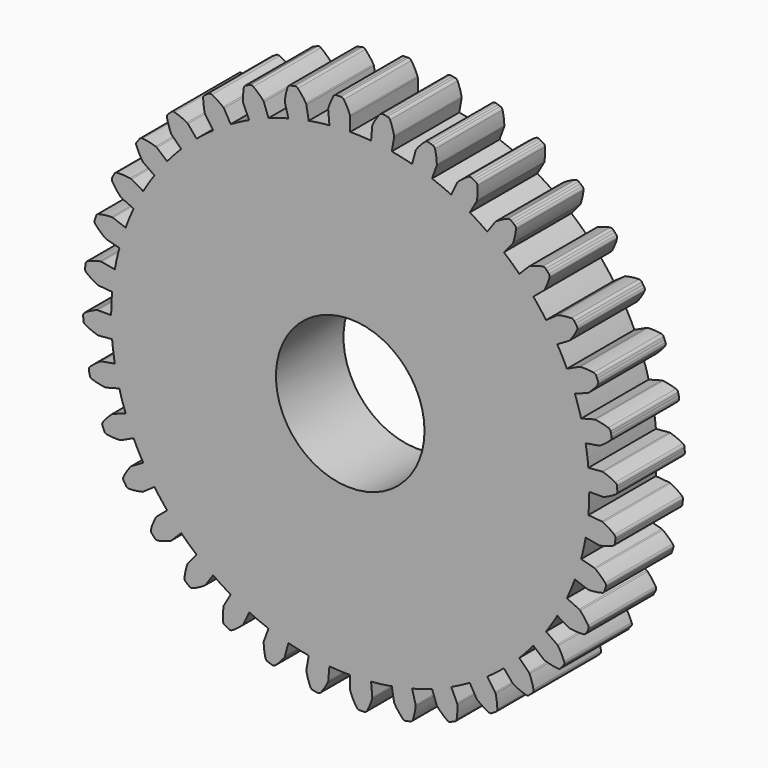
from build123d import *

# Parameters (mm, degrees)
F1_DEPTH = 6.35
F2_R     = 5.588
F3_DEPTH = 12.7


with BuildPart() as f1:
    # F0 (on Front) → F1 (new body)
    with BuildSketch(Plane.XZ):
        with BuildLine():
            ThreePointArc((17.914768, -1.567339), (17.966084, -0.784416), (17.9832, 0))
            ThreePointArc((17.9832, 0), (17.966084, 0.784416), (17.914768, 1.567339))
            ThreePointArc((17.914768, 1.567339), (17.829351, 2.347279), (17.709995, 3.12275))
            ThreePointArc((17.709995, 3.12275), (17.556926, 3.892277), (17.370437, 4.654395))
            ThreePointArc((17.370437, 4.654395), (17.150883, 5.407653), (16.89868, 6.150617))
            ThreePointArc((16.89868, 6.150617), (16.61431, 6.881873), (16.298314, 7.600029))
            ThreePointArc((16.298314, 7.600029), (15.951293, 8.303718), (15.573908, 8.9916))
            ThreePointArc((15.573908, 8.9916), (15.166877, 9.662366), (14.730975, 10.31474))
            ThreePointArc((14.730975, 10.31474), (14.267032, 10.947479), (13.77593, 11.559378))
            ThreePointArc((13.77593, 11.559378), (13.258606, 12.149274), (12.716043, 12.716043))
            ThreePointArc((12.716043, 12.716043), (12.149274, 13.258606), (11.559378, 13.77593))
            ThreePointArc((11.559378, 13.77593), (10.947479, 14.267032), (10.31474, 14.730975))
            ThreePointArc((10.31474, 14.730975), (9.662366, 15.166877), (8.9916, 15.573908))
            ThreePointArc((8.9916, 15.573908), (8.303718, 15.951293), (7.600029, 16.298314))
            ThreePointArc((7.600029, 16.298314), (6.881873, 16.61431), (6.150617, 16.89868))
            ThreePointArc((6.150617, 16.89868), (5.407653, 17.150883), (4.654395, 17.370437))
            ThreePointArc((4.654395, 17.370437), (3.892277, 17.556926), (3.12275, 17.709995))
            ThreePointArc((3.12275, 17.709995), (2.347279, 17.829351), (1.567339, 17.914768))
            ThreePointArc((1.567339, 17.914768), (0.784416, 17.966084), (0, 17.9832))
            ThreePointArc((0, 17.9832), (-0.784416, 17.966084), (-1.567339, 17.914768))
            ThreePointArc((-1.567339, 17.914768), (-2.347279, 17.829351), (-3.12275, 17.709995))
            ThreePointArc((-3.12275, 17.709995), (-3.892277, 17.556926), (-4.654395, 17.370437))
            ThreePointArc((-4.654395, 17.370437), (-5.407653, 17.150883), (-6.150617, 16.89868))
            ThreePointArc((-6.150617, 16.89868), (-6.881873, 16.61431), (-7.600029, 16.298314))
            ThreePointArc((-7.600029, 16.298314), (-8.303718, 15.951293), (-8.9916, 15.573908))
            ThreePointArc((-8.9916, 15.573908), (-9.662366, 15.166877), (-10.31474, 14.730975))
            ThreePointArc((-10.31474, 14.730975), (-10.947479, 14.267032), (-11.559378, 13.77593))
            ThreePointArc((-11.559378, 13.77593), (-12.149274, 13.258606), (-12.716043, 12.716043))
            ThreePointArc((-12.716043, 12.716043), (-13.258606, 12.149274), (-13.77593, 11.559378))
            ThreePointArc((-13.77593, 11.559378), (-14.267032, 10.947479), (-14.730975, 10.31474))
            ThreePointArc((-14.730975, 10.31474), (-15.166877, 9.662366), (-15.573908, 8.9916))
            ThreePointArc((-15.573908, 8.9916), (-15.951293, 8.303718), (-16.298314, 7.600029))
            ThreePointArc((-16.298314, 7.600029), (-16.61431, 6.881873), (-16.89868, 6.150617))
            ThreePointArc((-16.89868, 6.150617), (-17.150883, 5.407653), (-17.370437, 4.654395))
            ThreePointArc((-17.370437, 4.654395), (-17.556926, 3.892277), (-17.709995, 3.12275))
            ThreePointArc((-17.709995, 3.12275), (-17.829351, 2.347279), (-17.914768, 1.567339))
            ThreePointArc((-17.914768, 1.567339), (-17.966084, 0.784416), (-17.9832, 0))
            ThreePointArc((-17.9832, 0), (-17.966084, -0.784416), (-17.914768, -1.567339))
            ThreePointArc((-17.914768, -1.567339), (-17.829351, -2.347279), (-17.709995, -3.12275))
            ThreePointArc((-17.709995, -3.12275), (-17.556926, -3.892277), (-17.370437, -4.654395))
            ThreePointArc((-17.370437, -4.654395), (-17.150883, -5.407653), (-16.89868, -6.150617))
            ThreePointArc((-16.89868, -6.150617), (-16.61431, -6.881873), (-16.298314, -7.600029))
            ThreePointArc((-16.298314, -7.600029), (-15.951293, -8.303718), (-15.573908, -8.9916))
            ThreePointArc((-15.573908, -8.9916), (-15.166877, -9.662366), (-14.730975, -10.31474))
            ThreePointArc((-14.730975, -10.31474), (-14.267032, -10.947479), (-13.77593, -11.559378))
            ThreePointArc((-13.77593, -11.559378), (-13.258606, -12.149274), (-12.716043, -12.716043))
            ThreePointArc((-12.716043, -12.716043), (-12.149274, -13.258606), (-11.559378, -13.77593))
            ThreePointArc((-11.559378, -13.77593), (-10.947479, -14.267032), (-10.31474, -14.730975))
            ThreePointArc((-10.31474, -14.730975), (-9.662366, -15.166877), (-8.9916, -15.573908))
            ThreePointArc((-8.9916, -15.573908), (-8.303718, -15.951293), (-7.600029, -16.298314))
            ThreePointArc((-7.600029, -16.298314), (-6.881873, -16.61431), (-6.150617, -16.89868))
            ThreePointArc((-6.150617, -16.89868), (-5.407653, -17.150883), (-4.654395, -17.370437))
            ThreePointArc((-4.654395, -17.370437), (-3.892277, -17.556926), (-3.12275, -17.709995))
            ThreePointArc((-3.12275, -17.709995), (-2.347279, -17.829351), (-1.567339, -17.914768))
            ThreePointArc((-1.567339, -17.914768), (-0.784416, -17.966084), (0, -17.9832))
            ThreePointArc((0, -17.9832), (0.784416, -17.966084), (1.567339, -17.914768))
            ThreePointArc((1.567339, -17.914768), (2.347279, -17.829351), (3.12275, -17.709995))
            ThreePointArc((3.12275, -17.709995), (3.892277, -17.556926), (4.654395, -17.370437))
            ThreePointArc((4.654395, -17.370437), (5.407653, -17.150883), (6.150617, -16.89868))
            ThreePointArc((6.150617, -16.89868), (6.881873, -16.61431), (7.600029, -16.298314))
            ThreePointArc((7.600029, -16.298314), (8.303718, -15.951293), (8.9916, -15.573908))
            ThreePointArc((8.9916, -15.573908), (9.662366, -15.166877), (10.31474, -14.730975))
            ThreePointArc((10.31474, -14.730975), (10.947479, -14.267032), (11.559378, -13.77593))
            ThreePointArc((11.559378, -13.77593), (12.149274, -13.258606), (12.716043, -12.716043))
            ThreePointArc((12.716043, -12.716043), (13.258606, -12.149274), (13.77593, -11.559378))
            ThreePointArc((13.77593, -11.559378), (14.267032, -10.947479), (14.730975, -10.31474))
            ThreePointArc((14.730975, -10.31474), (15.166877, -9.662366), (15.573908, -8.9916))
            ThreePointArc((15.573908, -8.9916), (15.951293, -8.303718), (16.298314, -7.600029))
            ThreePointArc((16.298314, -7.600029), (16.61431, -6.881873), (16.89868, -6.150617))
            ThreePointArc((16.89868, -6.150617), (17.150883, -5.407653), (17.370437, -4.654395))
            ThreePointArc((17.370437, -4.654395), (17.556926, -3.892277), (17.709995, -3.12275))
            ThreePointArc((17.709995, -3.12275), (17.829351, -2.347279), (17.914768, -1.567339))
        make_face()
        with BuildLine():
            ThreePointArc((17.914768, 1.567339), (17.966084, 0.784416), (17.9832, 0))
            Line((17.9832, 0), (19.002172, 0))
            ThreePointArc((19.002172, 0), (19.049827, 0.00451), (19.095789, 0.017882))
            ThreePointArc((19.095789, 0.017882), (19.549398, 0.225853), (19.978756, 0.480146))
            ThreePointArc((19.978756, 0.480146), (20.063997, 0.575579), (20.091894, 0.70046))
            ThreePointArc((20.091894, 0.70046), (20.088623, 0.788702), (20.084965, 0.876929))
            ThreePointArc((20.084965, 0.876929), (20.08092, 0.965138), (20.076487, 1.053329))
            ThreePointArc((20.076487, 1.053329), (20.037812, 1.175304), (19.944579, 1.262945))
            ThreePointArc((19.944579, 1.262945), (19.494691, 1.478849), (19.024682, 1.646494))
            ThreePointArc((19.024682, 1.646494), (18.97773, 1.655809), (18.929863, 1.656148))
            Line((18.929863, 1.656148), (17.914768, 1.567339))
        make_face()
        with BuildLine():
            Line((18.929863, -1.656148), (17.914768, -1.567339))
            ThreePointArc((17.914768, -1.567339), (17.829351, -2.347279), (17.709995, -3.12275))
            Line((17.709995, -3.12275), (18.713486, -3.299693))
            ThreePointArc((18.713486, -3.299693), (18.7612, -3.303526), (18.808786, -3.298339))
            ThreePointArc((18.808786, -3.298339), (19.291618, -3.172296), (19.758611, -2.996423))
            ThreePointArc((19.758611, -2.996423), (19.859128, -2.917242), (19.908286, -2.799102))
            ThreePointArc((19.908286, -2.799102), (19.920389, -2.711633), (19.932107, -2.624112))
            ThreePointArc((19.932107, -2.624112), (19.94344, -2.536539), (19.954389, -2.448918))
            ThreePointArc((19.954389, -2.448918), (19.937482, -2.322081), (19.860884, -2.219582))
            ThreePointArc((19.860884, -2.219582), (19.455323, -1.928836), (19.021565, -1.682121))
            ThreePointArc((19.021565, -1.682121), (18.976943, -1.664795), (18.929863, -1.656148))
        make_face()
        with BuildLine():
            ThreePointArc((17.370437, 4.654395), (17.556926, 3.892277), (17.709995, 3.12275))
            Line((17.709995, 3.12275), (18.713486, 3.299693))
            ThreePointArc((18.713486, 3.299693), (18.759634, 3.31241), (18.802576, 3.333559))
            ThreePointArc((18.802576, 3.333559), (19.21318, 3.617139), (19.591858, 3.942126))
            ThreePointArc((19.591858, 3.942126), (19.659231, 4.050911), (19.665019, 4.178739))
            ThreePointArc((19.665019, 4.178739), (19.646475, 4.265073), (19.627553, 4.351324))
            ThreePointArc((19.627553, 4.351324), (19.608251, 4.437491), (19.588571, 4.523572))
            ThreePointArc((19.588571, 4.523572), (19.529303, 4.636978), (19.422268, 4.707097))
            ThreePointArc((19.422268, 4.707097), (18.941724, 4.8416), (18.449744, 4.925082))
            ThreePointArc((18.449744, 4.925082), (18.401887, 4.926101), (18.354689, 4.918124))
            Line((18.354689, 4.918124), (17.370437, 4.654395))
        make_face()
        with BuildLine():
            Line((18.354689, -4.918124), (17.370437, -4.654395))
            ThreePointArc((17.370437, -4.654395), (17.150883, -5.407653), (16.89868, -6.150617))
            Line((16.89868, -6.150617), (17.856201, -6.499126))
            ThreePointArc((17.856201, -6.499126), (17.902524, -6.511186), (17.950288, -6.514341))
            ThreePointArc((17.950288, -6.514341), (18.447671, -6.474056), (18.938109, -6.381948))
            ThreePointArc((18.938109, -6.381948), (19.050849, -6.321423), (19.119776, -6.213615))
            ThreePointArc((19.119776, -6.213615), (19.146883, -6.129577), (19.173621, -6.045419))
            ThreePointArc((19.173621, -6.045419), (19.199989, -5.961146), (19.225987, -5.876757))
            ThreePointArc((19.225987, -5.876757), (19.231362, -5.748911), (19.173726, -5.634668))
            ThreePointArc((19.173726, -5.634668), (18.824814, -5.277914), (18.440488, -4.959626))
            ThreePointArc((18.440488, -4.959626), (18.399552, -4.934815), (18.354689, -4.918124))
        make_face()
        with BuildLine():
            ThreePointArc((16.298314, 7.600029), (16.61431, 6.881873), (16.89868, 6.150617))
            Line((16.89868, 6.150617), (17.856201, 6.499126))
            ThreePointArc((17.856201, 6.499126), (17.899439, 6.519663), (17.938056, 6.547948))
            ThreePointArc((17.938056, 6.547948), (18.293179, 6.89852), (18.60967, 7.284327))
            ThreePointArc((18.60967, 7.284327), (18.65713, 7.403159), (18.640633, 7.530049))
            ThreePointArc((18.640633, 7.530049), (18.607379, 7.611851), (18.573767, 7.693506))
            ThreePointArc((18.573767, 7.693506), (18.539796, 7.775012), (18.505467, 7.856369))
            ThreePointArc((18.505467, 7.856369), (18.427407, 7.957759), (18.309821, 8.008227))
            ThreePointArc((18.309821, 8.008227), (17.813221, 8.057241), (17.314219, 8.054023))
            ThreePointArc((17.314219, 8.054023), (17.266913, 8.046717), (17.221817, 8.030665))
            Line((17.221817, 8.030665), (16.298314, 7.600029))
        make_face()
        with BuildLine():
            Line((17.221817, -8.030665), (16.298314, -7.600029))
            ThreePointArc((16.298314, -7.600029), (15.951293, -8.303718), (15.573908, -8.9916))
            Line((15.573908, -8.9916), (16.456364, -9.501086))
            ThreePointArc((16.456364, -9.501086), (16.499889, -9.521007), (16.546379, -9.532409))
            ThreePointArc((16.546379, -9.532409), (17.043202, -9.579105), (17.542183, -9.57356))
            ThreePointArc((17.542183, -9.57356), (17.66372, -9.533532), (17.75032, -9.439331))
            ThreePointArc((17.75032, -9.439331), (17.791609, -9.361276), (17.832554, -9.28304))
            ThreePointArc((17.832554, -9.28304), (17.873156, -9.204626), (17.913413, -9.126033))
            ThreePointArc((17.913413, -9.126033), (17.940906, -9.001063), (17.903984, -8.878547))
            ThreePointArc((17.903984, -8.878547), (17.622322, -8.466625), (17.299105, -8.086435))
            ThreePointArc((17.299105, -8.086435), (17.2631, -8.054893), (17.221817, -8.030665))
        make_face()
        with BuildLine():
            ThreePointArc((14.730975, 10.31474), (15.166877, 9.662366), (15.573908, 8.9916))
            Line((15.573908, 8.9916), (16.456364, 9.501086))
            ThreePointArc((16.456364, 9.501086), (16.495379, 9.52882), (16.528498, 9.56338))
            ThreePointArc((16.528498, 9.56338), (16.817349, 9.970293), (17.062038, 10.405197))
            ThreePointArc((17.062038, 10.405197), (17.088141, 10.530465), (17.04986, 10.652563))
            ThreePointArc((17.04986, 10.652563), (17.002907, 10.727347), (16.955626, 10.801925))
            ThreePointArc((16.955626, 10.801925), (16.908018, 10.876294), (16.860083, 10.950454))
            ThreePointArc((16.860083, 10.950454), (16.765603, 11.036749), (16.641039, 11.066031))
            ThreePointArc((16.641039, 11.066031), (16.143473, 11.028066), (15.652611, 10.938247))
            ThreePointArc((15.652611, 10.938247), (15.607292, 10.922837), (15.565668, 10.899198))
            Line((15.565668, 10.899198), (14.730975, 10.31474))
        make_face()
        with BuildLine():
            Line((15.565668, -10.899198), (14.730975, -10.31474))
            ThreePointArc((14.730975, -10.31474), (14.267032, -10.947479), (13.77593, -11.559378))
            Line((13.77593, -11.559378), (14.556508, -12.214361))
            ThreePointArc((14.556508, -12.214361), (14.595913, -12.241537), (14.639717, -12.260838))
            ThreePointArc((14.639717, -12.260838), (15.120883, -12.393098), (15.613247, -12.474284))
            ThreePointArc((15.613247, -12.474284), (15.739888, -12.455969), (15.84153, -12.378237))
            ThreePointArc((15.84153, -12.378237), (15.895746, -12.308537), (15.949655, -12.238601))
            ThreePointArc((15.949655, -12.238601), (16.003256, -12.168428), (16.056548, -12.09802))
            ThreePointArc((16.056548, -12.09802), (16.105325, -11.979723), (16.090239, -11.852656))
            ThreePointArc((16.090239, -11.852656), (15.884386, -11.398082), (15.632098, -10.967542))
            ThreePointArc((15.632098, -10.967542), (15.602117, -10.930226), (15.565668, -10.899198))
        make_face()
        with BuildLine():
            ThreePointArc((12.716043, 12.716043), (13.258606, 12.149274), (13.77593, 11.559378))
            Line((13.77593, 11.559378), (14.556508, 12.214361))
            ThreePointArc((14.556508, 12.214361), (14.590115, 12.248448), (14.616729, 12.288235))
            ThreePointArc((14.616729, 12.288235), (14.830533, 12.739124), (14.995983, 13.20991))
            ThreePointArc((14.995983, 13.20991), (14.999938, 13.337808), (14.941037, 13.451404))
            ThreePointArc((14.941037, 13.451404), (14.88181, 13.516899), (14.822297, 13.582133))
            ThreePointArc((14.822297, 13.582133), (14.762498, 13.647105), (14.702414, 13.711814))
            ThreePointArc((14.702414, 13.711814), (14.594384, 13.780392), (14.466628, 13.7876))
            ThreePointArc((14.466628, 13.7876), (13.983214, 13.66381), (13.515406, 13.490118))
            ThreePointArc((13.515406, 13.490118), (13.473451, 13.467072), (13.436565, 13.436565))
            Line((13.436565, 13.436565), (12.716043, 12.716043))
        make_face()
        with BuildLine():
            Line((13.436565, -13.436565), (12.716043, -12.716043))
            ThreePointArc((12.716043, -12.716043), (12.149274, -13.258606), (11.559378, -13.77593))
            Line((11.559378, -13.77593), (12.214361, -14.556508))
            ThreePointArc((12.214361, -14.556508), (12.248448, -14.590115), (12.288235, -14.616729))
            ThreePointArc((12.288235, -14.616729), (12.739124, -14.830533), (13.20991, -14.995983))
            ThreePointArc((13.20991, -14.995983), (13.337808, -14.999938), (13.451404, -14.941037))
            ThreePointArc((13.451404, -14.941037), (13.516899, -14.88181), (13.582133, -14.822297))
            ThreePointArc((13.582133, -14.822297), (13.647105, -14.762498), (13.711814, -14.702414))
            ThreePointArc((13.711814, -14.702414), (13.780392, -14.594384), (13.7876, -14.466628))
            ThreePointArc((13.7876, -14.466628), (13.66381, -13.983214), (13.490118, -13.515406))
            ThreePointArc((13.490118, -13.515406), (13.467072, -13.473451), (13.436565, -13.436565))
        make_face()
        with BuildLine():
            ThreePointArc((10.31474, 14.730975), (10.947479, 14.267032), (11.559378, 13.77593))
            Line((11.559378, 13.77593), (12.214361, 14.556508))
            ThreePointArc((12.214361, 14.556508), (12.241537, 14.595913), (12.260838, 14.639717))
            ThreePointArc((12.260838, 14.639717), (12.393098, 15.120883), (12.474284, 15.613247))
            ThreePointArc((12.474284, 15.613247), (12.455969, 15.739888), (12.378237, 15.84153))
            ThreePointArc((12.378237, 15.84153), (12.308537, 15.895746), (12.238601, 15.949655))
            ThreePointArc((12.238601, 15.949655), (12.168428, 16.003256), (12.09802, 16.056548))
            ThreePointArc((12.09802, 16.056548), (11.979723, 16.105325), (11.852656, 16.090239))
            ThreePointArc((11.852656, 16.090239), (11.398082, 15.884386), (10.967542, 15.632098))
            ThreePointArc((10.967542, 15.632098), (10.930226, 15.602117), (10.899198, 15.565668))
            Line((10.899198, 15.565668), (10.31474, 14.730975))
        make_face()
        with BuildLine():
            Line((10.899198, -15.565668), (10.31474, -14.730975))
            ThreePointArc((10.31474, -14.730975), (9.662366, -15.166877), (8.9916, -15.573908))
            Line((8.9916, -15.573908), (9.501086, -16.456364))
            ThreePointArc((9.501086, -16.456364), (9.52882, -16.495379), (9.56338, -16.528498))
            ThreePointArc((9.56338, -16.528498), (9.970293, -16.817349), (10.405197, -17.062038))
            ThreePointArc((10.405197, -17.062038), (10.530465, -17.088141), (10.652563, -17.04986))
            ThreePointArc((10.652563, -17.04986), (10.727347, -17.002907), (10.801925, -16.955626))
            ThreePointArc((10.801925, -16.955626), (10.876294, -16.908018), (10.950454, -16.860083))
            ThreePointArc((10.950454, -16.860083), (11.036749, -16.765603), (11.066031, -16.641039))
            ThreePointArc((11.066031, -16.641039), (11.028066, -16.143473), (10.938247, -15.652611))
            ThreePointArc((10.938247, -15.652611), (10.922837, -15.607292), (10.899198, -15.565668))
        make_face()
        with BuildLine():
            ThreePointArc((7.600029, 16.298314), (8.303718, 15.951293), (8.9916, 15.573908))
            Line((8.9916, 15.573908), (9.501086, 16.456364))
            ThreePointArc((9.501086, 16.456364), (9.521007, 16.499889), (9.532409, 16.546379))
            ThreePointArc((9.532409, 16.546379), (9.579105, 17.043202), (9.57356, 17.542183))
            ThreePointArc((9.57356, 17.542183), (9.533532, 17.66372), (9.439331, 17.75032))
            ThreePointArc((9.439331, 17.75032), (9.361276, 17.791609), (9.28304, 17.832554))
            ThreePointArc((9.28304, 17.832554), (9.204626, 17.873156), (9.126033, 17.913413))
            ThreePointArc((9.126033, 17.913413), (9.001063, 17.940906), (8.878547, 17.903984))
            ThreePointArc((8.878547, 17.903984), (8.466625, 17.622322), (8.086435, 17.299105))
            ThreePointArc((8.086435, 17.299105), (8.054893, 17.2631), (8.030665, 17.221817))
            Line((8.030665, 17.221817), (7.600029, 16.298314))
        make_face()
        with BuildLine():
            Line((8.030665, -17.221817), (7.600029, -16.298314))
            ThreePointArc((7.600029, -16.298314), (6.881873, -16.61431), (6.150617, -16.89868))
            Line((6.150617, -16.89868), (6.499126, -17.856201))
            ThreePointArc((6.499126, -17.856201), (6.519663, -17.899439), (6.547948, -17.938056))
            ThreePointArc((6.547948, -17.938056), (6.89852, -18.293179), (7.284327, -18.60967))
            ThreePointArc((7.284327, -18.60967), (7.403159, -18.65713), (7.530049, -18.640633))
            ThreePointArc((7.530049, -18.640633), (7.611851, -18.607379), (7.693506, -18.573767))
            ThreePointArc((7.693506, -18.573767), (7.775012, -18.539796), (7.856369, -18.505467))
            ThreePointArc((7.856369, -18.505467), (7.957759, -18.427407), (8.008227, -18.309821))
            ThreePointArc((8.008227, -18.309821), (8.057241, -17.813221), (8.054023, -17.314219))
            ThreePointArc((8.054023, -17.314219), (8.046717, -17.266913), (8.030665, -17.221817))
        make_face()
        with BuildLine():
            ThreePointArc((4.654395, 17.370437), (5.407653, 17.150883), (6.150617, 16.89868))
            Line((6.150617, 16.89868), (6.499126, 17.856201))
            ThreePointArc((6.499126, 17.856201), (6.511186, 17.902524), (6.514341, 17.950288))
            ThreePointArc((6.514341, 17.950288), (6.474056, 18.447671), (6.381948, 18.938109))
            ThreePointArc((6.381948, 18.938109), (6.321423, 19.050849), (6.213615, 19.119776))
            ThreePointArc((6.213615, 19.119776), (6.129577, 19.146883), (6.045419, 19.173621))
            ThreePointArc((6.045419, 19.173621), (5.961146, 19.199989), (5.876757, 19.225987))
            ThreePointArc((5.876757, 19.225987), (5.748911, 19.231362), (5.634668, 19.173726))
            ThreePointArc((5.634668, 19.173726), (5.277914, 18.824814), (4.959626, 18.440488))
            ThreePointArc((4.959626, 18.440488), (4.934815, 18.399552), (4.918124, 18.354689))
            Line((4.918124, 18.354689), (4.654395, 17.370437))
        make_face()
        with BuildLine():
            Line((4.918124, -18.354689), (4.654395, -17.370437))
            ThreePointArc((4.654395, -17.370437), (3.892277, -17.556926), (3.12275, -17.709995))
            Line((3.12275, -17.709995), (3.299693, -18.713486))
            ThreePointArc((3.299693, -18.713486), (3.31241, -18.759634), (3.333559, -18.802576))
            ThreePointArc((3.333559, -18.802576), (3.617139, -19.21318), (3.942126, -19.591858))
            ThreePointArc((3.942126, -19.591858), (4.050911, -19.659231), (4.178739, -19.665019))
            ThreePointArc((4.178739, -19.665019), (4.265073, -19.646475), (4.351324, -19.627553))
            ThreePointArc((4.351324, -19.627553), (4.437491, -19.608251), (4.523572, -19.588571))
            ThreePointArc((4.523572, -19.588571), (4.636978, -19.529303), (4.707097, -19.422268))
            ThreePointArc((4.707097, -19.422268), (4.8416, -18.941724), (4.925082, -18.449744))
            ThreePointArc((4.925082, -18.449744), (4.926101, -18.401887), (4.918124, -18.354689))
        make_face()
        with BuildLine():
            ThreePointArc((1.567339, 17.914768), (2.347279, 17.829351), (3.12275, 17.709995))
            Line((3.12275, 17.709995), (3.299693, 18.713486))
            ThreePointArc((3.299693, 18.713486), (3.303526, 18.7612), (3.298339, 18.808786))
            ThreePointArc((3.298339, 18.808786), (3.172296, 19.291618), (2.996423, 19.758611))
            ThreePointArc((2.996423, 19.758611), (2.917242, 19.859128), (2.799102, 19.908286))
            ThreePointArc((2.799102, 19.908286), (2.711633, 19.920389), (2.624112, 19.932107))
            ThreePointArc((2.624112, 19.932107), (2.536539, 19.94344), (2.448918, 19.954389))
            ThreePointArc((2.448918, 19.954389), (2.322081, 19.937482), (2.219582, 19.860884))
            ThreePointArc((2.219582, 19.860884), (1.928836, 19.455323), (1.682121, 19.021565))
            ThreePointArc((1.682121, 19.021565), (1.664795, 18.976943), (1.656148, 18.929863))
            Line((1.656148, 18.929863), (1.567339, 17.914768))
        make_face()
        with BuildLine():
            Line((1.656148, -18.929863), (1.567339, -17.914768))
            ThreePointArc((1.567339, -17.914768), (0.784416, -17.966084), (0, -17.9832))
            Line((0, -17.9832), (0, -19.002172))
            ThreePointArc((0, -19.002172), (0.00451, -19.049827), (0.017882, -19.095789))
            ThreePointArc((0.017882, -19.095789), (0.225853, -19.549398), (0.480146, -19.978756))
            ThreePointArc((0.480146, -19.978756), (0.575579, -20.063997), (0.70046, -20.091894))
            ThreePointArc((0.70046, -20.091894), (0.788702, -20.088623), (0.876929, -20.084965))
            ThreePointArc((0.876929, -20.084965), (0.965138, -20.08092), (1.053329, -20.076487))
            ThreePointArc((1.053329, -20.076487), (1.175304, -20.037812), (1.262945, -19.944579))
            ThreePointArc((1.262945, -19.944579), (1.478849, -19.494691), (1.646494, -19.024682))
            ThreePointArc((1.646494, -19.024682), (1.655809, -18.97773), (1.656148, -18.929863))
        make_face()
        with BuildLine():
            ThreePointArc((-1.567339, 17.914768), (-0.784416, 17.966084), (0, 17.9832))
            Line((0, 17.9832), (0, 19.002172))
            ThreePointArc((0, 19.002172), (-0.00451, 19.049827), (-0.017882, 19.095789))
            ThreePointArc((-0.017882, 19.095789), (-0.225853, 19.549398), (-0.480146, 19.978756))
            ThreePointArc((-0.480146, 19.978756), (-0.575579, 20.063997), (-0.70046, 20.091894))
            ThreePointArc((-0.70046, 20.091894), (-0.788702, 20.088623), (-0.876929, 20.084965))
            ThreePointArc((-0.876929, 20.084965), (-0.965138, 20.08092), (-1.053329, 20.076487))
            ThreePointArc((-1.053329, 20.076487), (-1.175304, 20.037812), (-1.262945, 19.944579))
            ThreePointArc((-1.262945, 19.944579), (-1.478849, 19.494691), (-1.646494, 19.024682))
            ThreePointArc((-1.646494, 19.024682), (-1.655809, 18.97773), (-1.656148, 18.929863))
            Line((-1.656148, 18.929863), (-1.567339, 17.914768))
        make_face()
        with BuildLine():
            Line((-1.656148, -18.929863), (-1.567339, -17.914768))
            ThreePointArc((-1.567339, -17.914768), (-2.347279, -17.829351), (-3.12275, -17.709995))
            Line((-3.12275, -17.709995), (-3.299693, -18.713486))
            ThreePointArc((-3.299693, -18.713486), (-3.303526, -18.7612), (-3.298339, -18.808786))
            ThreePointArc((-3.298339, -18.808786), (-3.172296, -19.291618), (-2.996423, -19.758611))
            ThreePointArc((-2.996423, -19.758611), (-2.917242, -19.859128), (-2.799102, -19.908286))
            ThreePointArc((-2.799102, -19.908286), (-2.711633, -19.920389), (-2.624112, -19.932107))
            ThreePointArc((-2.624112, -19.932107), (-2.536539, -19.94344), (-2.448918, -19.954389))
            ThreePointArc((-2.448918, -19.954389), (-2.322081, -19.937482), (-2.219582, -19.860884))
            ThreePointArc((-2.219582, -19.860884), (-1.928836, -19.455323), (-1.682121, -19.021565))
            ThreePointArc((-1.682121, -19.021565), (-1.664795, -18.976943), (-1.656148, -18.929863))
        make_face()
        with BuildLine():
            ThreePointArc((-4.654395, 17.370437), (-3.892277, 17.556926), (-3.12275, 17.709995))
            Line((-3.12275, 17.709995), (-3.299693, 18.713486))
            ThreePointArc((-3.299693, 18.713486), (-3.31241, 18.759634), (-3.333559, 18.802576))
            ThreePointArc((-3.333559, 18.802576), (-3.617139, 19.21318), (-3.942126, 19.591858))
            ThreePointArc((-3.942126, 19.591858), (-4.050911, 19.659231), (-4.178739, 19.665019))
            ThreePointArc((-4.178739, 19.665019), (-4.265073, 19.646475), (-4.351324, 19.627553))
            ThreePointArc((-4.351324, 19.627553), (-4.437491, 19.608251), (-4.523572, 19.588571))
            ThreePointArc((-4.523572, 19.588571), (-4.636978, 19.529303), (-4.707097, 19.422268))
            ThreePointArc((-4.707097, 19.422268), (-4.8416, 18.941724), (-4.925082, 18.449744))
            ThreePointArc((-4.925082, 18.449744), (-4.926101, 18.401887), (-4.918124, 18.354689))
            Line((-4.918124, 18.354689), (-4.654395, 17.370437))
        make_face()
        with BuildLine():
            Line((-4.918124, -18.354689), (-4.654395, -17.370437))
            ThreePointArc((-4.654395, -17.370437), (-5.407653, -17.150883), (-6.150617, -16.89868))
            Line((-6.150617, -16.89868), (-6.499126, -17.856201))
            ThreePointArc((-6.499126, -17.856201), (-6.511186, -17.902524), (-6.514341, -17.950288))
            ThreePointArc((-6.514341, -17.950288), (-6.474056, -18.447671), (-6.381948, -18.938109))
            ThreePointArc((-6.381948, -18.938109), (-6.321423, -19.050849), (-6.213615, -19.119776))
            ThreePointArc((-6.213615, -19.119776), (-6.129577, -19.146883), (-6.045419, -19.173621))
            ThreePointArc((-6.045419, -19.173621), (-5.961146, -19.199989), (-5.876757, -19.225987))
            ThreePointArc((-5.876757, -19.225987), (-5.748911, -19.231362), (-5.634668, -19.173726))
            ThreePointArc((-5.634668, -19.173726), (-5.277914, -18.824814), (-4.959626, -18.440488))
            ThreePointArc((-4.959626, -18.440488), (-4.934815, -18.399552), (-4.918124, -18.354689))
        make_face()
        with BuildLine():
            ThreePointArc((-7.600029, 16.298314), (-6.881873, 16.61431), (-6.150617, 16.89868))
            Line((-6.150617, 16.89868), (-6.499126, 17.856201))
            ThreePointArc((-6.499126, 17.856201), (-6.519663, 17.899439), (-6.547948, 17.938056))
            ThreePointArc((-6.547948, 17.938056), (-6.89852, 18.293179), (-7.284327, 18.60967))
            ThreePointArc((-7.284327, 18.60967), (-7.403159, 18.65713), (-7.530049, 18.640633))
            ThreePointArc((-7.530049, 18.640633), (-7.611851, 18.607379), (-7.693506, 18.573767))
            ThreePointArc((-7.693506, 18.573767), (-7.775012, 18.539796), (-7.856369, 18.505467))
            ThreePointArc((-7.856369, 18.505467), (-7.957759, 18.427407), (-8.008227, 18.309821))
            ThreePointArc((-8.008227, 18.309821), (-8.057241, 17.813221), (-8.054023, 17.314219))
            ThreePointArc((-8.054023, 17.314219), (-8.046717, 17.266913), (-8.030665, 17.221817))
            Line((-8.030665, 17.221817), (-7.600029, 16.298314))
        make_face()
        with BuildLine():
            Line((-8.030665, -17.221817), (-7.600029, -16.298314))
            ThreePointArc((-7.600029, -16.298314), (-8.303718, -15.951293), (-8.9916, -15.573908))
            Line((-8.9916, -15.573908), (-9.501086, -16.456364))
            ThreePointArc((-9.501086, -16.456364), (-9.521007, -16.499889), (-9.532409, -16.546379))
            ThreePointArc((-9.532409, -16.546379), (-9.579105, -17.043202), (-9.57356, -17.542183))
            ThreePointArc((-9.57356, -17.542183), (-9.533532, -17.66372), (-9.439331, -17.75032))
            ThreePointArc((-9.439331, -17.75032), (-9.361276, -17.791609), (-9.28304, -17.832554))
            ThreePointArc((-9.28304, -17.832554), (-9.204626, -17.873156), (-9.126033, -17.913413))
            ThreePointArc((-9.126033, -17.913413), (-9.001063, -17.940906), (-8.878547, -17.903984))
            ThreePointArc((-8.878547, -17.903984), (-8.466625, -17.622322), (-8.086435, -17.299105))
            ThreePointArc((-8.086435, -17.299105), (-8.054893, -17.2631), (-8.030665, -17.221817))
        make_face()
        with BuildLine():
            ThreePointArc((-10.31474, 14.730975), (-9.662366, 15.166877), (-8.9916, 15.573908))
            Line((-8.9916, 15.573908), (-9.501086, 16.456364))
            ThreePointArc((-9.501086, 16.456364), (-9.52882, 16.495379), (-9.56338, 16.528498))
            ThreePointArc((-9.56338, 16.528498), (-9.970293, 16.817349), (-10.405197, 17.062038))
            ThreePointArc((-10.405197, 17.062038), (-10.530465, 17.088141), (-10.652563, 17.04986))
            ThreePointArc((-10.652563, 17.04986), (-10.727347, 17.002907), (-10.801925, 16.955626))
            ThreePointArc((-10.801925, 16.955626), (-10.876294, 16.908018), (-10.950454, 16.860083))
            ThreePointArc((-10.950454, 16.860083), (-11.036749, 16.765603), (-11.066031, 16.641039))
            ThreePointArc((-11.066031, 16.641039), (-11.028066, 16.143473), (-10.938247, 15.652611))
            ThreePointArc((-10.938247, 15.652611), (-10.922837, 15.607292), (-10.899198, 15.565668))
            Line((-10.899198, 15.565668), (-10.31474, 14.730975))
        make_face()
        with BuildLine():
            Line((-10.899198, -15.565668), (-10.31474, -14.730975))
            ThreePointArc((-10.31474, -14.730975), (-10.947479, -14.267032), (-11.559378, -13.77593))
            Line((-11.559378, -13.77593), (-12.214361, -14.556508))
            ThreePointArc((-12.214361, -14.556508), (-12.241537, -14.595913), (-12.260838, -14.639717))
            ThreePointArc((-12.260838, -14.639717), (-12.393098, -15.120883), (-12.474284, -15.613247))
            ThreePointArc((-12.474284, -15.613247), (-12.455969, -15.739888), (-12.378237, -15.84153))
            ThreePointArc((-12.378237, -15.84153), (-12.308537, -15.895746), (-12.238601, -15.949655))
            ThreePointArc((-12.238601, -15.949655), (-12.168428, -16.003256), (-12.09802, -16.056548))
            ThreePointArc((-12.09802, -16.056548), (-11.979723, -16.105325), (-11.852656, -16.090239))
            ThreePointArc((-11.852656, -16.090239), (-11.398082, -15.884386), (-10.967542, -15.632098))
            ThreePointArc((-10.967542, -15.632098), (-10.930226, -15.602117), (-10.899198, -15.565668))
        make_face()
        with BuildLine():
            ThreePointArc((-12.716043, 12.716043), (-12.149274, 13.258606), (-11.559378, 13.77593))
            Line((-11.559378, 13.77593), (-12.214361, 14.556508))
            ThreePointArc((-12.214361, 14.556508), (-12.248448, 14.590115), (-12.288235, 14.616729))
            ThreePointArc((-12.288235, 14.616729), (-12.739124, 14.830533), (-13.20991, 14.995983))
            ThreePointArc((-13.20991, 14.995983), (-13.337808, 14.999938), (-13.451404, 14.941037))
            ThreePointArc((-13.451404, 14.941037), (-13.516899, 14.88181), (-13.582133, 14.822297))
            ThreePointArc((-13.582133, 14.822297), (-13.647105, 14.762498), (-13.711814, 14.702414))
            ThreePointArc((-13.711814, 14.702414), (-13.780392, 14.594384), (-13.7876, 14.466628))
            ThreePointArc((-13.7876, 14.466628), (-13.66381, 13.983214), (-13.490118, 13.515406))
            ThreePointArc((-13.490118, 13.515406), (-13.467072, 13.473451), (-13.436565, 13.436565))
            Line((-13.436565, 13.436565), (-12.716043, 12.716043))
        make_face()
        with BuildLine():
            Line((-13.436565, -13.436565), (-12.716043, -12.716043))
            ThreePointArc((-12.716043, -12.716043), (-13.258606, -12.149274), (-13.77593, -11.559378))
            Line((-13.77593, -11.559378), (-14.556508, -12.214361))
            ThreePointArc((-14.556508, -12.214361), (-14.590115, -12.248448), (-14.616729, -12.288235))
            ThreePointArc((-14.616729, -12.288235), (-14.830533, -12.739124), (-14.995983, -13.20991))
            ThreePointArc((-14.995983, -13.20991), (-14.999938, -13.337808), (-14.941037, -13.451404))
            ThreePointArc((-14.941037, -13.451404), (-14.88181, -13.516899), (-14.822297, -13.582133))
            ThreePointArc((-14.822297, -13.582133), (-14.762498, -13.647105), (-14.702414, -13.711814))
            ThreePointArc((-14.702414, -13.711814), (-14.594384, -13.780392), (-14.466628, -13.7876))
            ThreePointArc((-14.466628, -13.7876), (-13.983214, -13.66381), (-13.515406, -13.490118))
            ThreePointArc((-13.515406, -13.490118), (-13.473451, -13.467072), (-13.436565, -13.436565))
        make_face()
        with BuildLine():
            ThreePointArc((-14.730975, 10.31474), (-14.267032, 10.947479), (-13.77593, 11.559378))
            Line((-13.77593, 11.559378), (-14.556508, 12.214361))
            ThreePointArc((-14.556508, 12.214361), (-14.595913, 12.241537), (-14.639717, 12.260838))
            ThreePointArc((-14.639717, 12.260838), (-15.120883, 12.393098), (-15.613247, 12.474284))
            ThreePointArc((-15.613247, 12.474284), (-15.739888, 12.455969), (-15.84153, 12.378237))
            ThreePointArc((-15.84153, 12.378237), (-15.895746, 12.308537), (-15.949655, 12.238601))
            ThreePointArc((-15.949655, 12.238601), (-16.003256, 12.168428), (-16.056548, 12.09802))
            ThreePointArc((-16.056548, 12.09802), (-16.105325, 11.979723), (-16.090239, 11.852656))
            ThreePointArc((-16.090239, 11.852656), (-15.884386, 11.398082), (-15.632098, 10.967542))
            ThreePointArc((-15.632098, 10.967542), (-15.602117, 10.930226), (-15.565668, 10.899198))
            Line((-15.565668, 10.899198), (-14.730975, 10.31474))
        make_face()
        with BuildLine():
            Line((-15.565668, -10.899198), (-14.730975, -10.31474))
            ThreePointArc((-14.730975, -10.31474), (-15.166877, -9.662366), (-15.573908, -8.9916))
            Line((-15.573908, -8.9916), (-16.456364, -9.501086))
            ThreePointArc((-16.456364, -9.501086), (-16.495379, -9.52882), (-16.528498, -9.56338))
            ThreePointArc((-16.528498, -9.56338), (-16.817349, -9.970293), (-17.062038, -10.405197))
            ThreePointArc((-17.062038, -10.405197), (-17.088141, -10.530465), (-17.04986, -10.652563))
            ThreePointArc((-17.04986, -10.652563), (-17.002907, -10.727347), (-16.955626, -10.801925))
            ThreePointArc((-16.955626, -10.801925), (-16.908018, -10.876294), (-16.860083, -10.950454))
            ThreePointArc((-16.860083, -10.950454), (-16.765603, -11.036749), (-16.641039, -11.066031))
            ThreePointArc((-16.641039, -11.066031), (-16.143473, -11.028066), (-15.652611, -10.938247))
            ThreePointArc((-15.652611, -10.938247), (-15.607292, -10.922837), (-15.565668, -10.899198))
        make_face()
        with BuildLine():
            ThreePointArc((-16.298314, 7.600029), (-15.951293, 8.303718), (-15.573908, 8.9916))
            Line((-15.573908, 8.9916), (-16.456364, 9.501086))
            ThreePointArc((-16.456364, 9.501086), (-16.499889, 9.521007), (-16.546379, 9.532409))
            ThreePointArc((-16.546379, 9.532409), (-17.043202, 9.579105), (-17.542183, 9.57356))
            ThreePointArc((-17.542183, 9.57356), (-17.66372, 9.533532), (-17.75032, 9.439331))
            ThreePointArc((-17.75032, 9.439331), (-17.791609, 9.361276), (-17.832554, 9.28304))
            ThreePointArc((-17.832554, 9.28304), (-17.873156, 9.204626), (-17.913413, 9.126033))
            ThreePointArc((-17.913413, 9.126033), (-17.940906, 9.001063), (-17.903984, 8.878547))
            ThreePointArc((-17.903984, 8.878547), (-17.622322, 8.466625), (-17.299105, 8.086435))
            ThreePointArc((-17.299105, 8.086435), (-17.2631, 8.054893), (-17.221817, 8.030665))
            Line((-17.221817, 8.030665), (-16.298314, 7.600029))
        make_face()
        with BuildLine():
            Line((-17.221817, -8.030665), (-16.298314, -7.600029))
            ThreePointArc((-16.298314, -7.600029), (-16.61431, -6.881873), (-16.89868, -6.150617))
            Line((-16.89868, -6.150617), (-17.856201, -6.499126))
            ThreePointArc((-17.856201, -6.499126), (-17.899439, -6.519663), (-17.938056, -6.547948))
            ThreePointArc((-17.938056, -6.547948), (-18.293179, -6.89852), (-18.60967, -7.284327))
            ThreePointArc((-18.60967, -7.284327), (-18.65713, -7.403159), (-18.640633, -7.530049))
            ThreePointArc((-18.640633, -7.530049), (-18.607379, -7.611851), (-18.573767, -7.693506))
            ThreePointArc((-18.573767, -7.693506), (-18.539796, -7.775012), (-18.505467, -7.856369))
            ThreePointArc((-18.505467, -7.856369), (-18.427407, -7.957759), (-18.309821, -8.008227))
            ThreePointArc((-18.309821, -8.008227), (-17.813221, -8.057241), (-17.314219, -8.054023))
            ThreePointArc((-17.314219, -8.054023), (-17.266913, -8.046717), (-17.221817, -8.030665))
        make_face()
        with BuildLine():
            ThreePointArc((-17.370437, 4.654395), (-17.150883, 5.407653), (-16.89868, 6.150617))
            Line((-16.89868, 6.150617), (-17.856201, 6.499126))
            ThreePointArc((-17.856201, 6.499126), (-17.902524, 6.511186), (-17.950288, 6.514341))
            ThreePointArc((-17.950288, 6.514341), (-18.447671, 6.474056), (-18.938109, 6.381948))
            ThreePointArc((-18.938109, 6.381948), (-19.050849, 6.321423), (-19.119776, 6.213615))
            ThreePointArc((-19.119776, 6.213615), (-19.146883, 6.129577), (-19.173621, 6.045419))
            ThreePointArc((-19.173621, 6.045419), (-19.199989, 5.961146), (-19.225987, 5.876757))
            ThreePointArc((-19.225987, 5.876757), (-19.231362, 5.748911), (-19.173726, 5.634668))
            ThreePointArc((-19.173726, 5.634668), (-18.824814, 5.277914), (-18.440488, 4.959626))
            ThreePointArc((-18.440488, 4.959626), (-18.399552, 4.934815), (-18.354689, 4.918124))
            Line((-18.354689, 4.918124), (-17.370437, 4.654395))
        make_face()
        with BuildLine():
            Line((-18.354689, -4.918124), (-17.370437, -4.654395))
            ThreePointArc((-17.370437, -4.654395), (-17.556926, -3.892277), (-17.709995, -3.12275))
            Line((-17.709995, -3.12275), (-18.713486, -3.299693))
            ThreePointArc((-18.713486, -3.299693), (-18.759634, -3.31241), (-18.802576, -3.333559))
            ThreePointArc((-18.802576, -3.333559), (-19.21318, -3.617139), (-19.591858, -3.942126))
            ThreePointArc((-19.591858, -3.942126), (-19.659231, -4.050911), (-19.665019, -4.178739))
            ThreePointArc((-19.665019, -4.178739), (-19.646475, -4.265073), (-19.627553, -4.351324))
            ThreePointArc((-19.627553, -4.351324), (-19.608251, -4.437491), (-19.588571, -4.523572))
            ThreePointArc((-19.588571, -4.523572), (-19.529303, -4.636978), (-19.422268, -4.707097))
            ThreePointArc((-19.422268, -4.707097), (-18.941724, -4.8416), (-18.449744, -4.925082))
            ThreePointArc((-18.449744, -4.925082), (-18.401887, -4.926101), (-18.354689, -4.918124))
        make_face()
        with BuildLine():
            ThreePointArc((-17.914768, 1.567339), (-17.829351, 2.347279), (-17.709995, 3.12275))
            Line((-17.709995, 3.12275), (-18.713486, 3.299693))
            ThreePointArc((-18.713486, 3.299693), (-18.7612, 3.303526), (-18.808786, 3.298339))
            ThreePointArc((-18.808786, 3.298339), (-19.291618, 3.172296), (-19.758611, 2.996423))
            ThreePointArc((-19.758611, 2.996423), (-19.859128, 2.917242), (-19.908286, 2.799102))
            ThreePointArc((-19.908286, 2.799102), (-19.920389, 2.711633), (-19.932107, 2.624112))
            ThreePointArc((-19.932107, 2.624112), (-19.94344, 2.536539), (-19.954389, 2.448918))
            ThreePointArc((-19.954389, 2.448918), (-19.937482, 2.322081), (-19.860884, 2.219582))
            ThreePointArc((-19.860884, 2.219582), (-19.455323, 1.928836), (-19.021565, 1.682121))
            ThreePointArc((-19.021565, 1.682121), (-18.976943, 1.664795), (-18.929863, 1.656148))
            Line((-18.929863, 1.656148), (-17.914768, 1.567339))
        make_face()
        with BuildLine():
            Line((-18.929863, -1.656148), (-17.914768, -1.567339))
            ThreePointArc((-17.914768, -1.567339), (-17.966084, -0.784416), (-17.9832, 0))
            Line((-17.9832, 0), (-19.002172, 0))
            ThreePointArc((-19.002172, 0), (-19.049827, -0.00451), (-19.095789, -0.017882))
            ThreePointArc((-19.095789, -0.017882), (-19.549398, -0.225853), (-19.978756, -0.480146))
            ThreePointArc((-19.978756, -0.480146), (-20.063997, -0.575579), (-20.091894, -0.70046))
            ThreePointArc((-20.091894, -0.70046), (-20.088623, -0.788702), (-20.084965, -0.876929))
            ThreePointArc((-20.084965, -0.876929), (-20.08092, -0.965138), (-20.076487, -1.053329))
            ThreePointArc((-20.076487, -1.053329), (-20.037812, -1.175304), (-19.944579, -1.262945))
            ThreePointArc((-19.944579, -1.262945), (-19.494691, -1.478849), (-19.024682, -1.646494))
            ThreePointArc((-19.024682, -1.646494), (-18.97773, -1.655809), (-18.929863, -1.656148))
        make_face()
        with BuildLine():
            ThreePointArc((17.914768, -1.567339), (17.966084, -0.784416), (17.9832, 0))
            ThreePointArc((17.9832, 0), (17.966084, 0.784416), (17.914768, 1.567339))
            ThreePointArc((17.914768, 1.567339), (17.829351, 2.347279), (17.709995, 3.12275))
            ThreePointArc((17.709995, 3.12275), (17.556926, 3.892277), (17.370437, 4.654395))
            ThreePointArc((17.370437, 4.654395), (17.150883, 5.407653), (16.89868, 6.150617))
            ThreePointArc((16.89868, 6.150617), (16.61431, 6.881873), (16.298314, 7.600029))
            ThreePointArc((16.298314, 7.600029), (15.951293, 8.303718), (15.573908, 8.9916))
            ThreePointArc((15.573908, 8.9916), (15.166877, 9.662366), (14.730975, 10.31474))
            ThreePointArc((14.730975, 10.31474), (14.267032, 10.947479), (13.77593, 11.559378))
            ThreePointArc((13.77593, 11.559378), (13.258606, 12.149274), (12.716043, 12.716043))
            ThreePointArc((12.716043, 12.716043), (12.149274, 13.258606), (11.559378, 13.77593))
            ThreePointArc((11.559378, 13.77593), (10.947479, 14.267032), (10.31474, 14.730975))
            ThreePointArc((10.31474, 14.730975), (9.662366, 15.166877), (8.9916, 15.573908))
            ThreePointArc((8.9916, 15.573908), (8.303718, 15.951293), (7.600029, 16.298314))
            ThreePointArc((7.600029, 16.298314), (6.881873, 16.61431), (6.150617, 16.89868))
            ThreePointArc((6.150617, 16.89868), (5.407653, 17.150883), (4.654395, 17.370437))
            ThreePointArc((4.654395, 17.370437), (3.892277, 17.556926), (3.12275, 17.709995))
            ThreePointArc((3.12275, 17.709995), (2.347279, 17.829351), (1.567339, 17.914768))
            ThreePointArc((1.567339, 17.914768), (0.784416, 17.966084), (0, 17.9832))
            ThreePointArc((0, 17.9832), (-0.784416, 17.966084), (-1.567339, 17.914768))
            ThreePointArc((-1.567339, 17.914768), (-2.347279, 17.829351), (-3.12275, 17.709995))
            ThreePointArc((-3.12275, 17.709995), (-3.892277, 17.556926), (-4.654395, 17.370437))
            ThreePointArc((-4.654395, 17.370437), (-5.407653, 17.150883), (-6.150617, 16.89868))
            ThreePointArc((-6.150617, 16.89868), (-6.881873, 16.61431), (-7.600029, 16.298314))
            ThreePointArc((-7.600029, 16.298314), (-8.303718, 15.951293), (-8.9916, 15.573908))
            ThreePointArc((-8.9916, 15.573908), (-9.662366, 15.166877), (-10.31474, 14.730975))
            ThreePointArc((-10.31474, 14.730975), (-10.947479, 14.267032), (-11.559378, 13.77593))
            ThreePointArc((-11.559378, 13.77593), (-12.149274, 13.258606), (-12.716043, 12.716043))
            ThreePointArc((-12.716043, 12.716043), (-13.258606, 12.149274), (-13.77593, 11.559378))
            ThreePointArc((-13.77593, 11.559378), (-14.267032, 10.947479), (-14.730975, 10.31474))
            ThreePointArc((-14.730975, 10.31474), (-15.166877, 9.662366), (-15.573908, 8.9916))
            ThreePointArc((-15.573908, 8.9916), (-15.951293, 8.303718), (-16.298314, 7.600029))
            ThreePointArc((-16.298314, 7.600029), (-16.61431, 6.881873), (-16.89868, 6.150617))
            ThreePointArc((-16.89868, 6.150617), (-17.150883, 5.407653), (-17.370437, 4.654395))
            ThreePointArc((-17.370437, 4.654395), (-17.556926, 3.892277), (-17.709995, 3.12275))
            ThreePointArc((-17.709995, 3.12275), (-17.829351, 2.347279), (-17.914768, 1.567339))
            ThreePointArc((-17.914768, 1.567339), (-17.966084, 0.784416), (-17.9832, 0))
            ThreePointArc((-17.9832, 0), (-17.966084, -0.784416), (-17.914768, -1.567339))
            ThreePointArc((-17.914768, -1.567339), (-17.829351, -2.347279), (-17.709995, -3.12275))
            ThreePointArc((-17.709995, -3.12275), (-17.556926, -3.892277), (-17.370437, -4.654395))
            ThreePointArc((-17.370437, -4.654395), (-17.150883, -5.407653), (-16.89868, -6.150617))
            ThreePointArc((-16.89868, -6.150617), (-16.61431, -6.881873), (-16.298314, -7.600029))
            ThreePointArc((-16.298314, -7.600029), (-15.951293, -8.303718), (-15.573908, -8.9916))
            ThreePointArc((-15.573908, -8.9916), (-15.166877, -9.662366), (-14.730975, -10.31474))
            ThreePointArc((-14.730975, -10.31474), (-14.267032, -10.947479), (-13.77593, -11.559378))
            ThreePointArc((-13.77593, -11.559378), (-13.258606, -12.149274), (-12.716043, -12.716043))
            ThreePointArc((-12.716043, -12.716043), (-12.149274, -13.258606), (-11.559378, -13.77593))
            ThreePointArc((-11.559378, -13.77593), (-10.947479, -14.267032), (-10.31474, -14.730975))
            ThreePointArc((-10.31474, -14.730975), (-9.662366, -15.166877), (-8.9916, -15.573908))
            ThreePointArc((-8.9916, -15.573908), (-8.303718, -15.951293), (-7.600029, -16.298314))
            ThreePointArc((-7.600029, -16.298314), (-6.881873, -16.61431), (-6.150617, -16.89868))
            ThreePointArc((-6.150617, -16.89868), (-5.407653, -17.150883), (-4.654395, -17.370437))
            ThreePointArc((-4.654395, -17.370437), (-3.892277, -17.556926), (-3.12275, -17.709995))
            ThreePointArc((-3.12275, -17.709995), (-2.347279, -17.829351), (-1.567339, -17.914768))
            ThreePointArc((-1.567339, -17.914768), (-0.784416, -17.966084), (0, -17.9832))
            ThreePointArc((0, -17.9832), (0.784416, -17.966084), (1.567339, -17.914768))
            ThreePointArc((1.567339, -17.914768), (2.347279, -17.829351), (3.12275, -17.709995))
            ThreePointArc((3.12275, -17.709995), (3.892277, -17.556926), (4.654395, -17.370437))
            ThreePointArc((4.654395, -17.370437), (5.407653, -17.150883), (6.150617, -16.89868))
            ThreePointArc((6.150617, -16.89868), (6.881873, -16.61431), (7.600029, -16.298314))
            ThreePointArc((7.600029, -16.298314), (8.303718, -15.951293), (8.9916, -15.573908))
            ThreePointArc((8.9916, -15.573908), (9.662366, -15.166877), (10.31474, -14.730975))
            ThreePointArc((10.31474, -14.730975), (10.947479, -14.267032), (11.559378, -13.77593))
            ThreePointArc((11.559378, -13.77593), (12.149274, -13.258606), (12.716043, -12.716043))
            ThreePointArc((12.716043, -12.716043), (13.258606, -12.149274), (13.77593, -11.559378))
            ThreePointArc((13.77593, -11.559378), (14.267032, -10.947479), (14.730975, -10.31474))
            ThreePointArc((14.730975, -10.31474), (15.166877, -9.662366), (15.573908, -8.9916))
            ThreePointArc((15.573908, -8.9916), (15.951293, -8.303718), (16.298314, -7.600029))
            ThreePointArc((16.298314, -7.600029), (16.61431, -6.881873), (16.89868, -6.150617))
            ThreePointArc((16.89868, -6.150617), (17.150883, -5.407653), (17.370437, -4.654395))
            ThreePointArc((17.370437, -4.654395), (17.556926, -3.892277), (17.709995, -3.12275))
            ThreePointArc((17.709995, -3.12275), (17.829351, -2.347279), (17.914768, -1.567339))
        make_face()
    extrude(amount=F1_DEPTH)

    # F2 (on Front) → F3 (cut)
    with BuildSketch(Plane.XZ):
        Circle(F2_R)
    extrude(amount=F3_DEPTH, mode=Mode.SUBTRACT)


solid = f1.part
